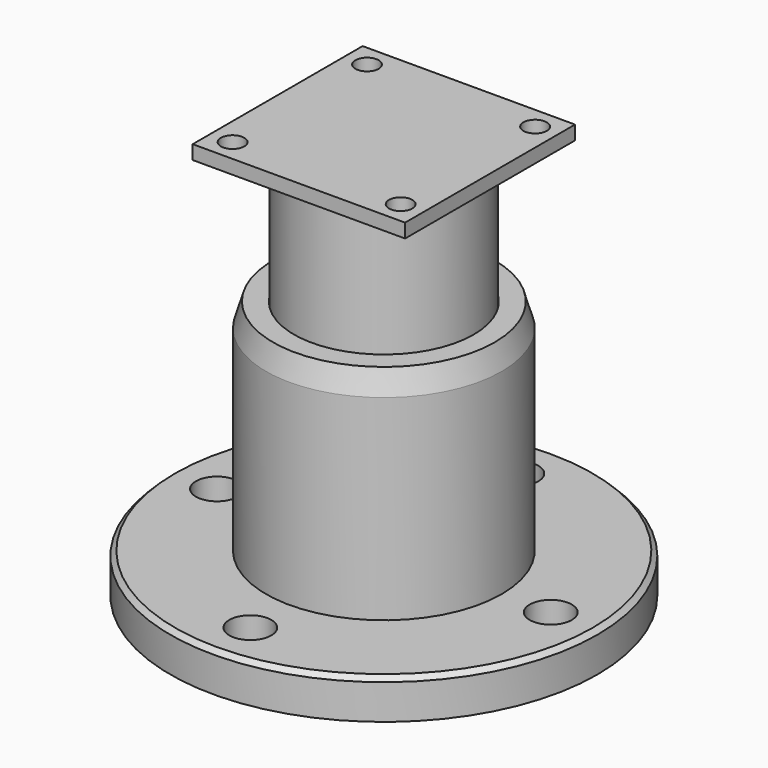
from build123d import *

# Parameters (mm, degrees)
F0_R     = 91.5
F0_R_2   = 9
F0_R_3   = 38.5
F1_DEPTH = 17
F2_R     = 50.5
F2_R_2   = 38.5
F3_DEPTH = 94
F4_SIZE2 = 10
F4_SIZE  = 3
F5_SIZE  = 2
F6_R     = 38.25
F6_R_2   = 34.25
F7_DEPTH = 168
F8_W     = 91
F8_H     = 91
F8_R     = 5
F9_DEPTH = 6


with BuildPart() as f1:
    # F0 (on Top) → F1 (new body)
    with BuildSketch(Plane.XY):
        Circle(F0_R)
        with Locations((0, -71.5)):
            Circle(F0_R_2, mode=Mode.SUBTRACT)
        with Locations((-71.5, 0)):
            Circle(F0_R_2, mode=Mode.SUBTRACT)
        Circle(F0_R_3, mode=Mode.SUBTRACT)
        with Locations((71.5, 0)):
            Circle(F0_R_2, mode=Mode.SUBTRACT)
        with Locations((0, 71.5)):
            Circle(F0_R_2, mode=Mode.SUBTRACT)
    extrude(amount=F1_DEPTH)

    # F2 (on face) → F3 (join)
    with BuildSketch(Plane.XY.offset(17)):
        Circle(F2_R)
        Circle(F2_R_2, mode=Mode.SUBTRACT)
    extrude(amount=F3_DEPTH)

    # F4
    f4_edges = [f1.edges().sort_by_distance(p)[0] for p in [
        (-50.5, 0, 111),
    ]]
    f4_side = f1.faces().sort_by_distance((-49.071644, 0, 111))[0]
    chamfer(f4_edges, length=F4_SIZE, length2=F4_SIZE2, reference=f4_side)

    # F5
    f5_edges = [f1.edges().sort_by_distance(p)[0] for p in [
        (-91.5, 0, 17),
    ]]
    chamfer(f5_edges, length=F5_SIZE)


with BuildPart() as f7:
    # F6 (on Top) → F7 (new body)
    with BuildSketch(Plane.XY):
        Circle(F6_R)
        Circle(F6_R_2, mode=Mode.SUBTRACT)
    extrude(amount=F7_DEPTH)

    # F8 (on face) → F9 (join)
    with BuildSketch(Plane.XY.offset(168)):
        Rectangle(F8_W, F8_H)
        with Locations((-36, -36)):
            Circle(F8_R, mode=Mode.SUBTRACT)
        with Locations((36, -36)):
            Circle(F8_R, mode=Mode.SUBTRACT)
        with Locations((-36, 36)):
            Circle(F8_R, mode=Mode.SUBTRACT)
        with Locations((36, 36)):
            Circle(F8_R, mode=Mode.SUBTRACT)
    extrude(amount=F9_DEPTH)


solid = Compound([f1.part, f7.part])
